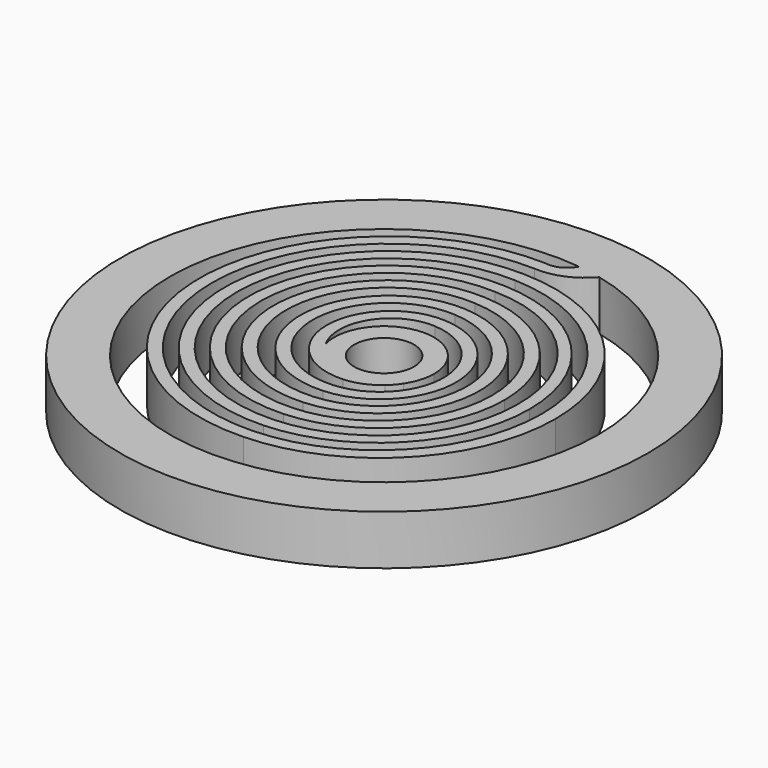
from build123d import *

# Parameters (mm, degrees)
F0_R     = 10.59377
F1_DEPTH = 2


with BuildPart() as f1:
    # F0 (on Top) → F1 (new body)
    with BuildSketch(Plane.XY):
        Circle(F0_R)
        with BuildLine():
            ThreePointArc((0.996837, 8.53576), (1.47012, 8.467091), (1.938849, 8.3722))
            ThreePointArc((1.938849, 8.3722), (6.727366, 5.347469), (8.59377, 0))
            ThreePointArc((8.59377, 0), (-6.419481, -5.713418), (0.996837, 8.53576))
        make_face(mode=Mode.SUBTRACT)
        with BuildLine():
            Line((0, 8.057479), (0, 7.557479))
            ThreePointArc((0, 7.557479), (1.065814, 7.735455), (1.938849, 8.3722))
            ThreePointArc((1.938849, 8.3722), (1.47012, 8.467091), (0.996837, 8.53576))
            ThreePointArc((0.996837, 8.53576), (0.577473, 8.131853), (0, 8.057479))
        make_face()
        with BuildLine():
            Line((0, -7.057478), (0, -6.557478))
            ThreePointArc((0, -6.557478), (-7.303459, 0.5), (0, 7.557479))
            Line((0, 7.557479), (0, 8.057479))
            ThreePointArc((0, 8.057479), (-7.803459, 0.5), (0, -7.057478))
        make_face()
        with BuildLine():
            ThreePointArc((-1.934061, -0.509323), (-1.880118, 1.599911), (0, 2.557479))
            Line((0, 2.557479), (0, 3.057479))
            ThreePointArc((0, 3.057479), (-2.69798, 0.5), (0, -2.057478))
            ThreePointArc((0, -2.057478), (0.681168, -1.90565), (1.275761, -1.540271))
            ThreePointArc((1.275761, -1.540271), (1.48147, -1.334409), (1.656951, -1.102241))
            ThreePointArc((1.656951, -1.102241), (1.905185, -0.574995), (2, 0))
            ThreePointArc((2, 0), (-0.256787, 1.983447), (-1.934061, -0.509323))
        make_face()
        with BuildLine():
            ThreePointArc((1.20105, 0), (1.149689, -0.34747), (1, -0.665222))
            ThreePointArc((1, -0.665222), (-1.149689, 0.34747), (1.20105, 0))
        make_face(mode=Mode.SUBTRACT)
        with BuildLine():
            ThreePointArc((0, 2.557479), (2.393997, 0), (0, -2.557478))
            Line((0, -2.557478), (0, -3.057478))
            ThreePointArc((0, -3.057478), (2.893997, 0), (0, 3.057479))
            Line((0, 3.057479), (0, 2.557479))
        make_face()
        with BuildLine():
            ThreePointArc((0, 3.557479), (3.330074, 0), (0, -3.557478))
            Line((0, -3.557478), (0, -4.057478))
            ThreePointArc((0, -4.057478), (3.830074, 0), (0, 4.057479))
            Line((0, 4.057479), (0, 3.557479))
        make_face()
        with BuildLine():
            Line((0, -4.057478), (0, -3.557478))
            ThreePointArc((0, -3.557478), (-4.334556, 0.5), (0, 4.557479))
            Line((0, 4.557479), (0, 5.057479))
            ThreePointArc((0, 5.057479), (-4.834556, 0.5), (0, -4.057478))
        make_face()
        with BuildLine():
            ThreePointArc((0, -2.557478), (-3.266268, 0.5), (0, 3.557479))
            Line((0, 3.557479), (0, 4.057479))
            ThreePointArc((0, 4.057479), (-3.766268, 0.5), (0, -3.057478))
            Line((0, -3.057478), (0, -2.557478))
        make_face()
        with BuildLine():
            Line((0, 5.057479), (0, 4.557479))
            ThreePointArc((0, 4.557479), (3.074953, 3.143253), (4.330074, 0))
            Line((4.330074, 0), (4.830074, 0))
            ThreePointArc((4.830074, 0), (3.428573, 3.496702), (0, 5.057479))
        make_face()
        with BuildLine():
            Line((4.830074, 0), (4.330074, 0))
            ThreePointArc((4.330074, 0), (3.074953, -3.143253), (0, -4.557478))
            Line((0, -4.557478), (0, -5.057478))
            ThreePointArc((0, -5.057478), (3.428573, -3.496702), (4.830074, 0))
        make_face()
        with BuildLine():
            Line((0, -5.057478), (0, -4.557478))
            ThreePointArc((0, -4.557478), (-5.334556, 0.5), (0, 5.557479))
            Line((0, 5.557479), (0, 6.057479))
            ThreePointArc((0, 6.057479), (-5.834556, 0.5), (0, -5.057478))
        make_face()
        with BuildLine():
            Line((0, 6.057479), (0, 5.557479))
            ThreePointArc((0, 5.557479), (3.828019, 3.894133), (5.330074, 0))
            Line((5.330074, 0), (5.830074, 0))
            ThreePointArc((5.830074, 0), (4.135779, 4.203653), (0, 6.057479))
        make_face()
        with BuildLine():
            Line((5.830074, 0), (5.330074, 0))
            ThreePointArc((5.330074, 0), (3.78218, -3.850171), (0, -5.557478))
            Line((0, -5.557478), (0, -6.057478))
            ThreePointArc((0, -6.057478), (4.135779, -4.203653), (5.830074, 0))
        make_face()
        with BuildLine():
            Line((0, -6.057478), (0, -5.557478))
            ThreePointArc((0, -5.557478), (-6.303459, 0.5), (0, 6.557479))
            Line((0, 6.557479), (0, 7.057479))
            ThreePointArc((0, 7.057479), (-6.803459, 0.5), (0, -6.057478))
        make_face()
        with BuildLine():
            Line((0, 7.057479), (0, 6.557479))
            ThreePointArc((0, 6.557479), (4.489371, 4.557147), (6.330074, 0))
            Line((6.330074, 0), (6.876646, 0))
            ThreePointArc((6.876646, 0), (4.873222, 4.926872), (0, 7.057479))
        make_face()
        with BuildLine():
            Line((6.876646, 0), (6.330074, 0))
            ThreePointArc((6.330074, 0), (4.489371, -4.557147), (0, -6.557478))
            Line((0, -6.557478), (0, -7.057478))
            ThreePointArc((0, -7.057478), (4.873222, -4.926872), (6.876646, 0))
        make_face()
    extrude(amount=F1_DEPTH)


solid = f1.part
